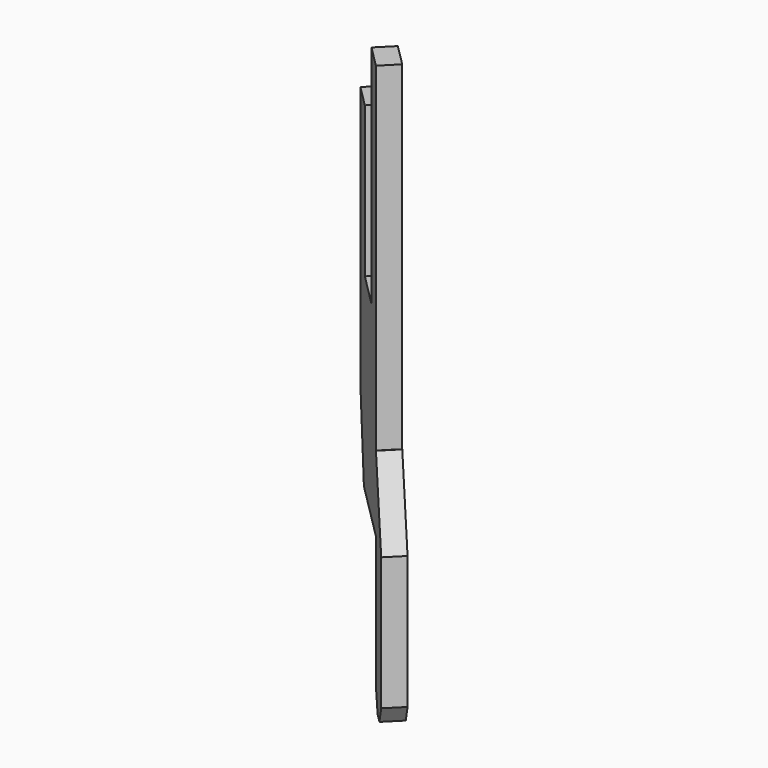
from build123d import *

# Parameters (mm, degrees)
BOX076_W                = 2.9
BOX076_H                = 0.55
BOX076_DEPTH            = 15
BOX077_W                = 1.25
BOX077_H                = 0.55
BOX077_DEPTH            = 6
BOX078_W                = 1.1
BOX078_H                = 0.6
BOX078_DEPTH            = 2
BOX080_W                = 1
BOX080_H                = 0.55
BOX080_DEPTH            = 6
BOX079_W                = 3
BOX079_H                = 0.55
BOX079_DEPTH            = 4
CHAMFER038_SIZE2        = 0.65
CHAMFER038_SIZE         = 2
CHAMFER039_ANGLE        = 33
CHAMFER039_SIZE         = 0.5
CHAMFER041_ANGLE        = 56
CHAMFER041_SIZE         = 0.33
CHAMFER040_ANGLE        = 26.565
CHAMFER040_SIZE         = 1.98
BODY030_PLACEMENT_ANGLE = 135


with BuildPart() as part:
    # Box076 → Box076 (join)
    with BuildSketch(Plane(origin=(-4.95, -0.275, 0), x_dir=(1, 0, 0), z_dir=(0, 0, 1))):
        with Locations((1.45, 0.275)):
            Rectangle(BOX076_W, BOX076_H)
    extrude(amount=BOX076_DEPTH)

    # Box077 → Box077 (cut)
    with BuildSketch(Plane(origin=(-4.125, -0.275, 9), x_dir=(1, 0, 0), z_dir=(0, 0, 1))):
        with Locations((0.625, 0.275)):
            Rectangle(BOX077_W, BOX077_H)
    extrude(amount=BOX077_DEPTH, mode=Mode.SUBTRACT)

    # Box078 → Box078 (cut)
    with BuildSketch(Plane(origin=(-3, -0.3, 13), x_dir=(1, 0, 0), z_dir=(0, 0, 1))):
        with Locations((0.55, 0.3)):
            Rectangle(BOX078_W, BOX078_H)
    extrude(amount=BOX078_DEPTH, mode=Mode.SUBTRACT)

    # Box080 → Box080 (join)
    with BuildSketch(Plane(origin=(-5.95, -0.275, 0), x_dir=(1, 0, 0), z_dir=(0, 0, 1))):
        with Locations((0.5, 0.275)):
            Rectangle(BOX080_W, BOX080_H)
    extrude(amount=BOX080_DEPTH)

    # Box079 → Box079 (cut)
    with BuildSketch(Plane(origin=(-4.95, 0.275, 4), x_dir=(1, 0, 0), z_dir=(0, 0, -1))):
        with Locations((1.5, 0.275)):
            Rectangle(BOX079_W, BOX079_H)
    extrude(amount=BOX079_DEPTH, mode=Mode.SUBTRACT)

    # Chamfer038
    chamfer038_edges = [part.edges().sort_by_distance(p)[0] for p in [
        (-2.05, 0, 4),
    ]]
    chamfer038_side = part.faces().sort_by_distance((-2.05, 0, 8.5))[0]
    chamfer(chamfer038_edges, length=CHAMFER038_SIZE, length2=CHAMFER038_SIZE2, reference=chamfer038_side)

    # Chamfer039
    chamfer039_edges = [part.edges().sort_by_distance(p)[0] for p in [
        (-4.95, 0, 0),
    ]]
    chamfer039_side = part.faces().sort_by_distance((-4.95, 0, 2))[0]
    chamfer(chamfer039_edges, length=CHAMFER039_SIZE, angle=CHAMFER039_ANGLE, reference=chamfer039_side)

    # Chamfer041
    chamfer041_edges = [part.edges().sort_by_distance(p)[0] for p in [
        (-5.95, 0, 0),
    ]]
    chamfer041_side = part.faces().sort_by_distance((-5.612352, 0, 0))[0]
    chamfer(chamfer041_edges, length=CHAMFER041_SIZE, angle=CHAMFER041_ANGLE, reference=chamfer041_side)

    # Chamfer040
    chamfer040_edges = [part.edges().sort_by_distance(p)[0] for p in [
        (-5.95, 0, 6),
    ]]
    chamfer040_side = part.faces().sort_by_distance((-5.95, 0, 3.244623))[0]
    chamfer(chamfer040_edges, length=CHAMFER040_SIZE, angle=CHAMFER040_ANGLE, reference=chamfer040_side)


with BuildPart() as part_1:
    # Body030 placement: moved
    add(part.part.moved(Location((0, 0, -4))).rotate(Axis((0, 0, -4), (0, 0, 1)), BODY030_PLACEMENT_ANGLE))


solid = part_1.part
